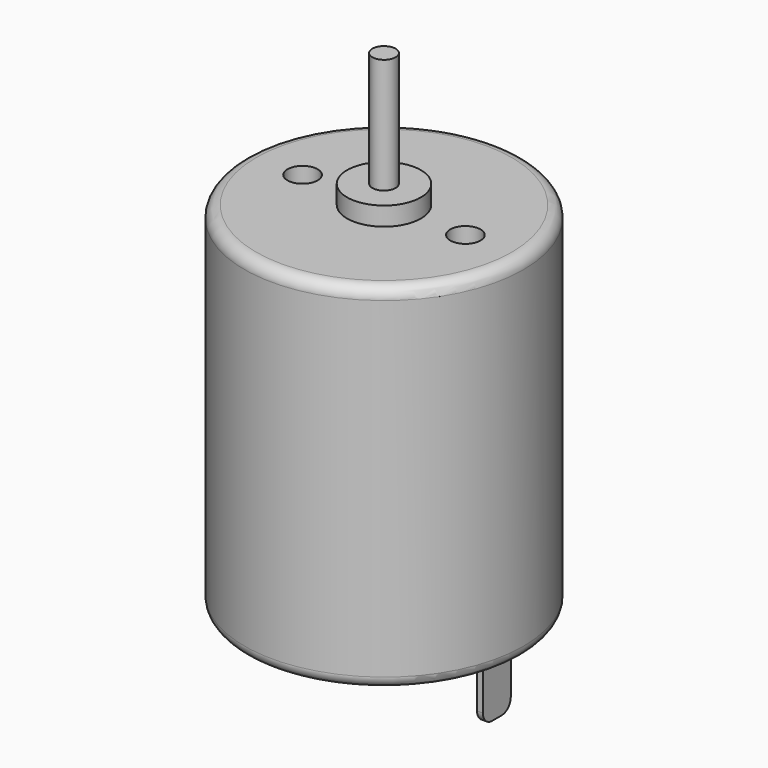
from build123d import *

# Parameters (mm, degrees)
F0_R      = 12
F1_DEPTH  = 30.5
F2_R      = 1
F3_DEPTH  = 11.5
F4_R      = 3.175
F5_DEPTH  = 1.6
F6_R      = 1.3
F7_DEPTH  = 10
F8_R      = 4
F9_DEPTH  = 2
F10_W     = 0.5
F10_H     = 3
F11_DEPTH = 5.2
F12_R     = 1
F13_R     = 1
F14_R     = 1


with BuildPart() as f1:
    # F0 (on Top) → F1 (new body)
    with BuildSketch(Plane.XY):
        Circle(F0_R)
    extrude(amount=F1_DEPTH)

    # F2 (on face) → F3 (join)
    with BuildSketch(Plane.XY.offset(30.5)):
        Circle(F2_R)
    extrude(amount=F3_DEPTH)

    # F4 (on face) → F5 (join)
    with BuildSketch(Plane.XY.offset(30.5)):
        Circle(F4_R)
    extrude(amount=F5_DEPTH)

    # F6 (on face) → F7 (cut)
    with BuildSketch(Plane.XY.offset(30.5)):
        with Locations((-7, 0)):
            Circle(F6_R)
        with Locations((7, 0)):
            Circle(F6_R)
    extrude(amount=-F7_DEPTH, mode=Mode.SUBTRACT)

    # F8 (on face) → F9 (join)
    with BuildSketch(Plane(origin=(0, 0, 0), x_dir=(1, 0, 0), z_dir=(0, 0, -1))):
        Circle(F8_R)
    extrude(amount=F9_DEPTH)

    # F10 (on face) → F11 (join)
    with BuildSketch(Plane(origin=(0, 0, 0), x_dir=(1, 0, 0), z_dir=(0, 0, -1))):
        with Locations((-9.45, 0)):
            Rectangle(F10_W, F10_H)
        with Locations((9.45, 0)):
            Rectangle(F10_W, F10_H)
    extrude(amount=F11_DEPTH)

    # F12
    f12_edges = [f1.edges().sort_by_distance(p)[0] for p in [
        (-9.45, 1.5, -5.2),
        (-9.45, -1.5, -5.2),
        (9.45, 1.5, -5.2),
        (9.45, -1.5, -5.2),
    ]]
    fillet(f12_edges, radius=F12_R)

    # F13
    f13_edges = [f1.edges().sort_by_distance(p)[0] for p in [
        (-12, 0, 0),
    ]]
    fillet(f13_edges, radius=F13_R)

    # F14
    f14_edges = [f1.edges().sort_by_distance(p)[0] for p in [
        (-12, 0, 30.5),
    ]]
    fillet(f14_edges, radius=F14_R)


solid = f1.part
